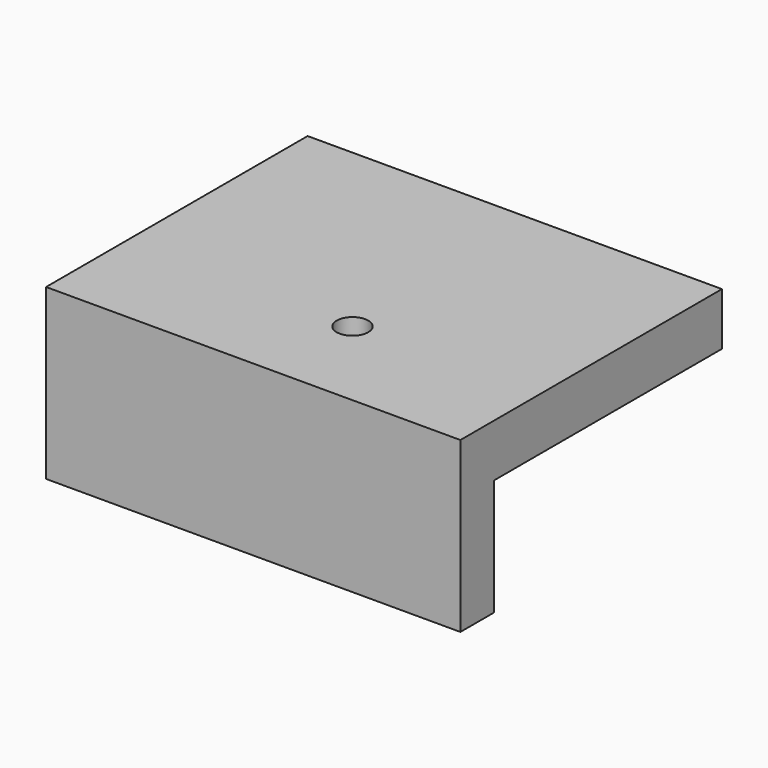
from build123d import *

# Parameters (mm, degrees)
F0_W     = 25.35
F0_H     = 31.05
F0_R     = 1.5
F1_DEPTH = 5
F3_DEPTH = 11.05
F5_DEPTH = 14
F7_DEPTH = 27.1
F9_DEPTH = 11.05


with BuildPart() as f1:
    # F0 (on Top) → F1 (new body)
    with BuildSketch(Plane.XY):
        with Locations((-2.675, 4.475)):
            Rectangle(F0_W, F0_H)
        with Locations((6.35, -1.8)):
            Circle(F0_R, mode=Mode.SUBTRACT)
    extrude(amount=F1_DEPTH)

    # F2 (on face) → F3 (join)
    with BuildSketch(Plane.XY.offset(5)):
        Polygon((-10.35, 20), (-15.35, 20), (-15.35, -11.05), (10, -11.05), (10, -7.05), (-10.35, -7.05), align=None)
    extrude(amount=F3_DEPTH)

    # F4 (on face) → F5 (join)
    with BuildSketch(Plane.YZ.offset(10)):
        Polygon((-7.05, 16.05), (-11.05, 16.05), (-11.05, 0), (20, 0), (20, 5), (-7.05, 5), align=None)
    extrude(amount=F5_DEPTH)

    # F6 (on face) → F7 (join)
    with BuildSketch(Plane.XY.offset(16.05)):
        Polygon((-10.35, 20), (-15.35, 20), (-15.35, -11.05), (24, -11.05), (24, -7.05), (-10.35, -7.05), align=None)
    extrude(amount=-F7_DEPTH)

    # F8 (on face) → F9 (cut)
    with BuildSketch(Plane.XY.offset(16.05)):
        Polygon((-10.35, 20), (-15.35, 20), (-15.35, -11.05), (24, -11.05), (24, -7.05), (-10.35, -7.05), align=None)
    extrude(amount=-F9_DEPTH, mode=Mode.SUBTRACT)


solid = f1.part
